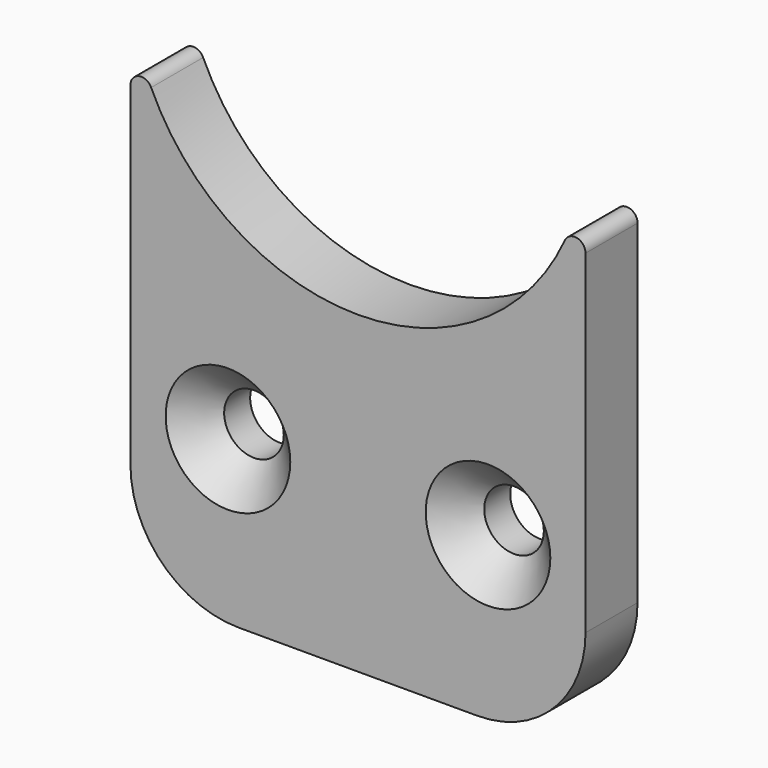
from build123d import *

# Parameters (mm, degrees)
F0_R     = 2.75
F1_DEPTH = 6
F2_R     = 1
F3_SIZE  = 3


with BuildPart() as f1:
    # F0 (on Front) → F1 (new body)
    with BuildSketch(Plane.XZ):
        with BuildLine():
            ThreePointArc((21, 0), (0, -21), (-21, 0))
            Line((-21, 0), (-21, -40))
            ThreePointArc((-21, -40), (-18.071068, -47.071068), (-11, -50))
            Line((-11, -50), (11, -50))
            ThreePointArc((11, -50), (18.071068, -47.071068), (21, -40))
            Line((21, -40), (21, 0))
        make_face()
        with Locations((-12, -35)):
            Circle(F0_R, mode=Mode.SUBTRACT)
        with Locations((12, -35)):
            Circle(F0_R, mode=Mode.SUBTRACT)
    extrude(amount=F1_DEPTH)

    # F2
    f2_edges = [f1.edges().sort_by_distance(p)[0] for p in [
        (-21, -3, 0),
        (21, -3, 0),
    ]]
    fillet(f2_edges, radius=F2_R)

    # F3
    f3_edges = [f1.edges().sort_by_distance(p)[0] for p in [
        (-14.75, -6, -35),
        (9.25, -6, -35),
    ]]
    chamfer(f3_edges, length=F3_SIZE)


solid = f1.part
